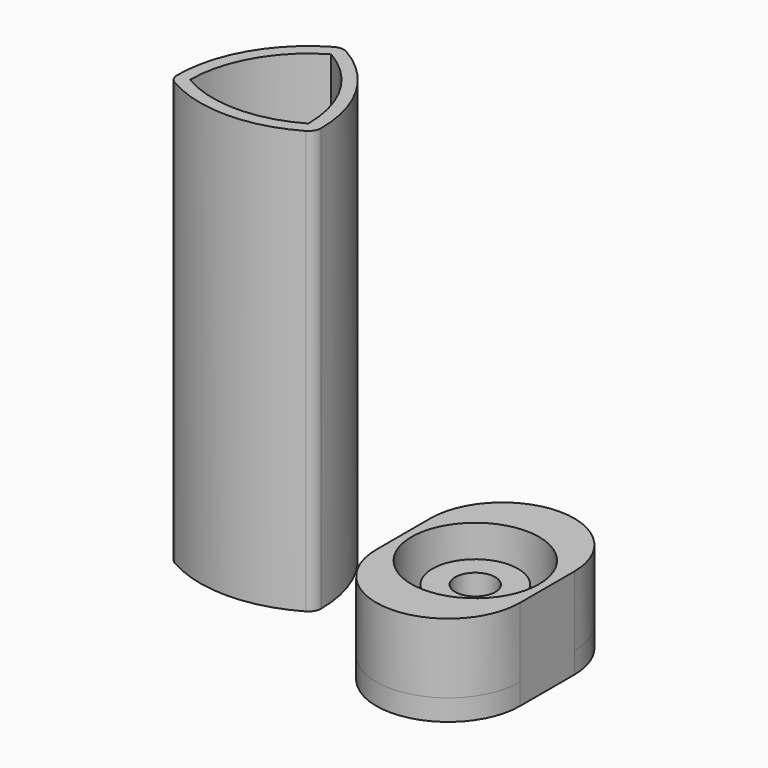
from build123d import *

# Parameters (mm, degrees)
SKETCH_R           = 15.1
PAD_DEPTH          = 16.5
PAD001_DEPTH       = 5.25
POLARPATTERN_COUNT = 8
PAD002_DEPTH       = 5
SKETCH003_R        = 10.125
PAD003_DEPTH       = 11.5
SKETCH004_R        = 4.75
POCKET_DEPTH       = 16.501
SKETCH006_R        = 6.65
POCKET001_DEPTH    = 5
POCKET002_DEPTH    = 2
PAD005_DEPTH       = 100
THICKNESS_T        = 3


with BuildPart() as body:
    # Sketch → Pad (new body)
    with BuildSketch(Plane.XY):
        with BuildLine():
            ThreePointArc((17, 8), (0, 25), (-17, 8))
            Line((-17, 8), (-17, -8))
            ThreePointArc((-17, -8), (0, -25), (17, -8))
            Line((17, -8), (17, 8))
        make_face()
        Circle(SKETCH_R, mode=Mode.SUBTRACT)
    extrude(amount=PAD_DEPTH)

    # Sketch001 → Pad001 (join)
    with BuildSketch(Plane.XY):
        with BuildLine():
            ThreePointArc((1.995609, 14.96755), (0, 15.1), (-1.995609, 14.96755))
            ThreePointArc((-1.995609, 14.96755), (0, 13.1), (1.995609, 14.96755))
        make_face()
    pad001 = extrude(amount=PAD001_DEPTH)

    # PolarPattern: Pad001 ×8 about axis
    polarpattern_axis = Axis((0, 0, 0), (0, 0, 1))
    for i in range(1, POLARPATTERN_COUNT):
        add(pad001.rotate(polarpattern_axis, i * 360 / POLARPATTERN_COUNT))

    # Sketch002 (on Face23 of PolarPattern) → Pad002 (join)
    with BuildSketch(Plane(origin=(0, 0, 0), x_dir=(1, 0, 0), z_dir=(0, 0, -1))):
        with BuildLine():
            ThreePointArc((-17, -8), (0, -25.000054), (17, -8))
            Line((17, -8), (17, 8))
            ThreePointArc((17, 8), (0, 25.000046), (-17, 8))
            Line((-17, -8), (-17, 8))
        make_face()
    extrude(amount=PAD002_DEPTH)

    # Sketch003 (on Face8 of Pad002) → Pad003 (join)
    with BuildSketch(Plane.XY):
        Circle(SKETCH003_R)
    extrude(amount=PAD003_DEPTH)

    # Sketch004 (on Face28 of Pad003) → Pocket (cut, through all)
    with BuildSketch(Plane.XY.offset(11.5)):
        Circle(SKETCH004_R)
    extrude(amount=-POCKET_DEPTH, mode=Mode.SUBTRACT)

    # Sketch006 (on Face8 of Pocket) → Pocket001 (cut)
    with BuildSketch(Plane(origin=(0, 0, -5), x_dir=(1, 0, 0), z_dir=(0, 0, -1))):
        Circle(SKETCH006_R)
    extrude(amount=-POCKET001_DEPTH, mode=Mode.SUBTRACT)

    # Sketch007 (on Face8 of Pocket001) → Pocket002 (cut)
    with BuildSketch(Plane(origin=(0, 0, -5), x_dir=(1, 0, 0), z_dir=(0, 0, -1))):
        with BuildLine():
            ThreePointArc((15, 8), (0, 23.000046), (-15, 8))
            Line((-15, -8), (-15, 8))
            ThreePointArc((-15, -8), (7e-06, -23.000054), (15, -7.999987))
            Line((15, -7.999987), (15, 8))
        make_face()
    extrude(amount=-POCKET002_DEPTH, mode=Mode.SUBTRACT)


with BuildPart() as body002:
    # Sketch008 → Pad005 (new body)
    with BuildSketch(Plane.XY):
        with BuildLine():
            ThreePointArc((0, 16.165808), (-10.248711, 5.917096), (-14, -8.082904))
            ThreePointArc((-14, -8.082904), (0, -11.834192), (14, -8.082904))
            ThreePointArc((14, -8.082904), (10.248711, 5.917096), (0, 16.165808))
        make_face()
    extrude(amount=PAD005_DEPTH)

    # Thickness
    thickness_openings = [body002.faces().sort_by_distance(p)[0] for p in [
        (0, 0, 0),
        (0, 0, 100),
    ]]
    offset(amount=THICKNESS_T, openings=thickness_openings)


with BuildPart() as body002_1:
    # Body002 placement: moved
    add(body002.part.moved(Location((-47, 0, 0))))


solid = Compound([body.part, body002_1.part])
